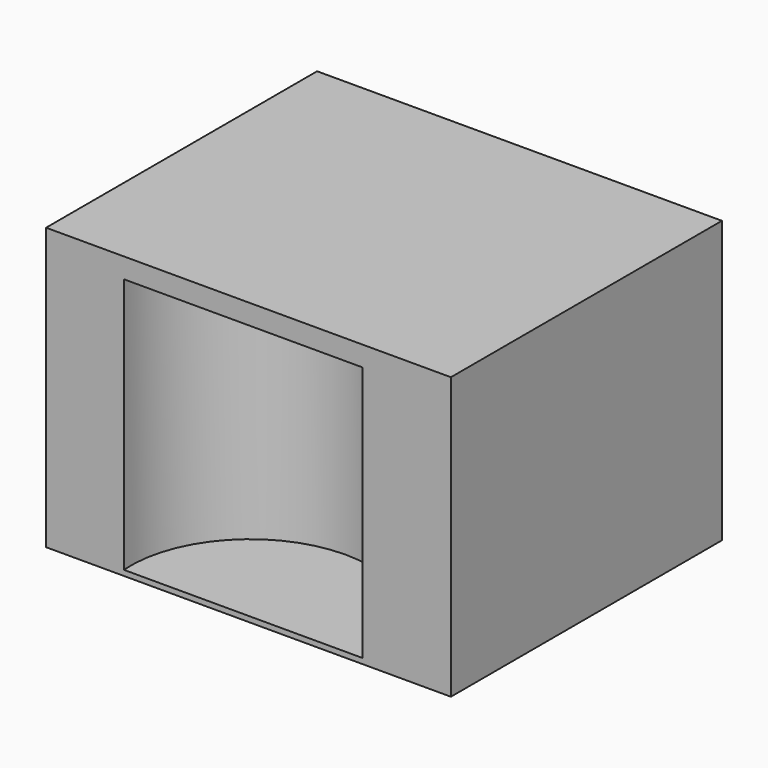
from build123d import *

# Parameters (mm, degrees)
F0_W     = 78.213096
F0_H     = 54.349408
F1_DEPTH = 65.45485
F2_R     = 23.091124
F3_DEPTH = 49.427398


with BuildPart() as f1:
    # F0 (on Front) → F1 (new body)
    with BuildSketch(Plane.XZ):
        with Locations((1.047328, -23.293011)):
            Rectangle(F0_W, F0_H)
    extrude(amount=F1_DEPTH)

    # F2 (on Top) → F3 (cut)
    with BuildSketch(Plane.XY):
        with Locations((0, -63.773148)):
            Circle(F2_R)
    extrude(amount=-F3_DEPTH, mode=Mode.SUBTRACT)


solid = f1.part
